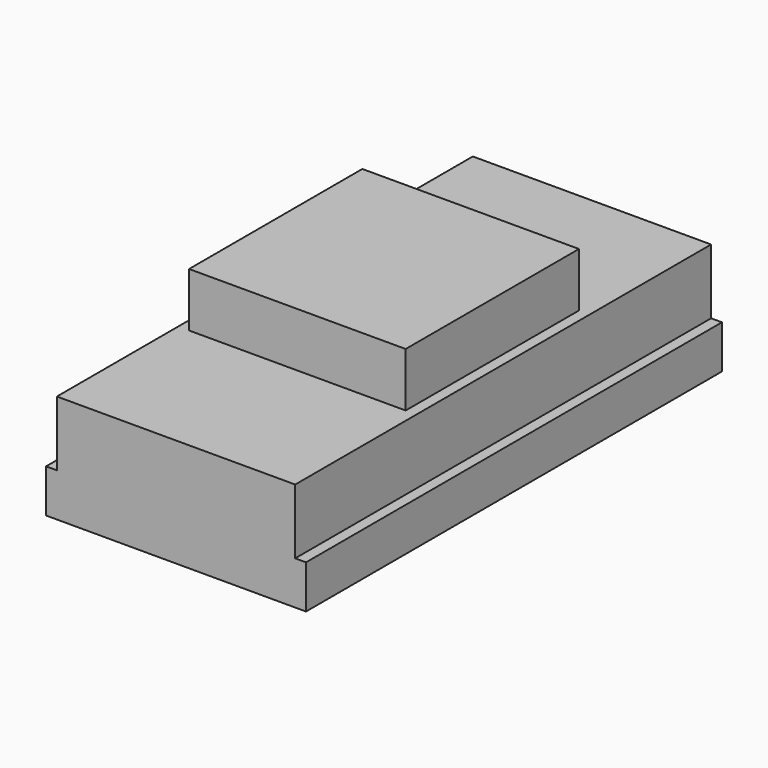
from build123d import *

# Parameters (mm, degrees)
SKETCH008_W             = 1219.2
SKETCH008_H             = 609.6
PAD008_DEPTH            = 101.6
SKETCH007_W             = 1219.2
SKETCH007_H             = 558.8
PAD006_DEPTH            = 152.4
SKETCH006_W             = 508
SKETCH006_H             = 508
PAD007_DEPTH            = 127
BODY002_PLACEMENT_ANGLE = 90


with BuildPart() as part:
    # Sketch008 → Pad008 (new body)
    with BuildSketch(Plane.XY):
        with Locations((609.6, 304.8)):
            Rectangle(SKETCH008_W, SKETCH008_H)
    extrude(amount=PAD008_DEPTH)

    # Sketch007 (on Face6 of Pad008) → Pad006 (join)
    with BuildSketch(Plane.XY.offset(101.6)):
        with Locations((609.6, 304.8)):
            Rectangle(SKETCH007_W, SKETCH007_H)
    extrude(amount=PAD006_DEPTH)

    # Sketch006 (on Face12 of Pad006) → Pad007 (join)
    with BuildSketch(Plane.XY.offset(254)):
        with Locations((609.6, 304.8)):
            Rectangle(SKETCH006_W, SKETCH006_H)
    extrude(amount=PAD007_DEPTH)


with BuildPart() as part_1:
    # Body002 placement: moved
    add(part.part.moved(Location((-955.421, 1219.2, 2458.9105))).rotate(Axis((-955.421, 1219.2, 2458.9105), (0, 0, 1)), BODY002_PLACEMENT_ANGLE))


solid = part_1.part
